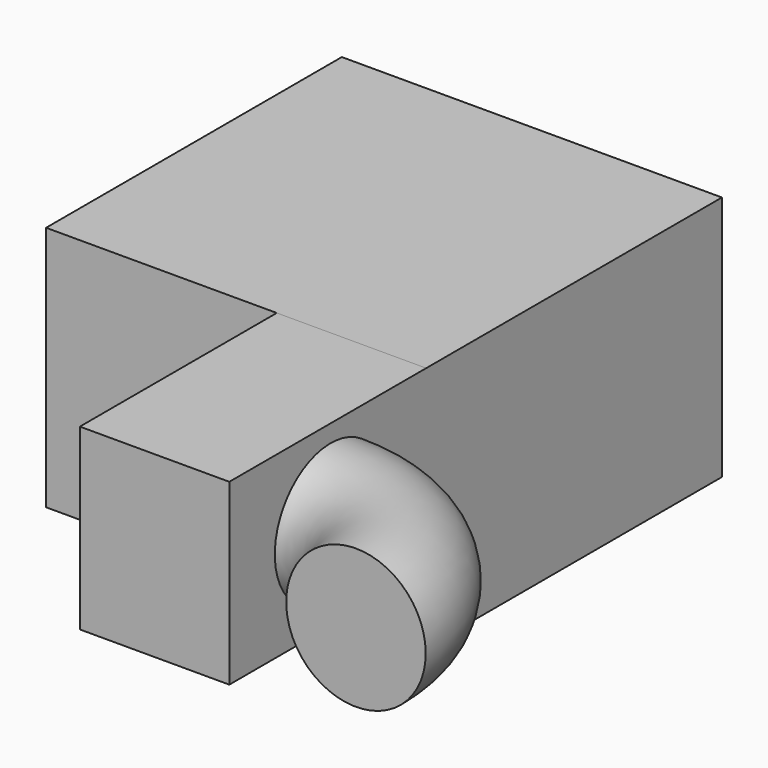
from build123d import *

# Parameters (mm, degrees)
F0_W     = 38.61342
F0_H     = 37.553012
F1_DEPTH = 25
F2_W     = 15.180568
F2_H     = 18.142793
F3_DEPTH = 25
F4_R     = 7.086632
F5_ANGLE = 90


with BuildPart() as f1:
    # F0 (on Top) → F1 (new body)
    with BuildSketch(Plane.XY):
        with Locations((-19.30671, 18.776506)):
            Rectangle(F0_W, F0_H)
    extrude(amount=F1_DEPTH)

    # F2 (on face) → F3 (join)
    with BuildSketch(Plane.XZ):
        with Locations((-7.590284, 15.928603)):
            Rectangle(F2_W, F2_H)
    extrude(amount=F3_DEPTH)

    # F4 (on face) → F5 (revolve)
    with BuildSketch(Plane.YZ):
        with Locations((-12.13547, 16.139457)):
            Circle(F4_R)
    revolve(axis=Axis((0, -25, 15.928603), (0, 0, -1)), revolution_arc=F5_ANGLE)


solid = f1.part
